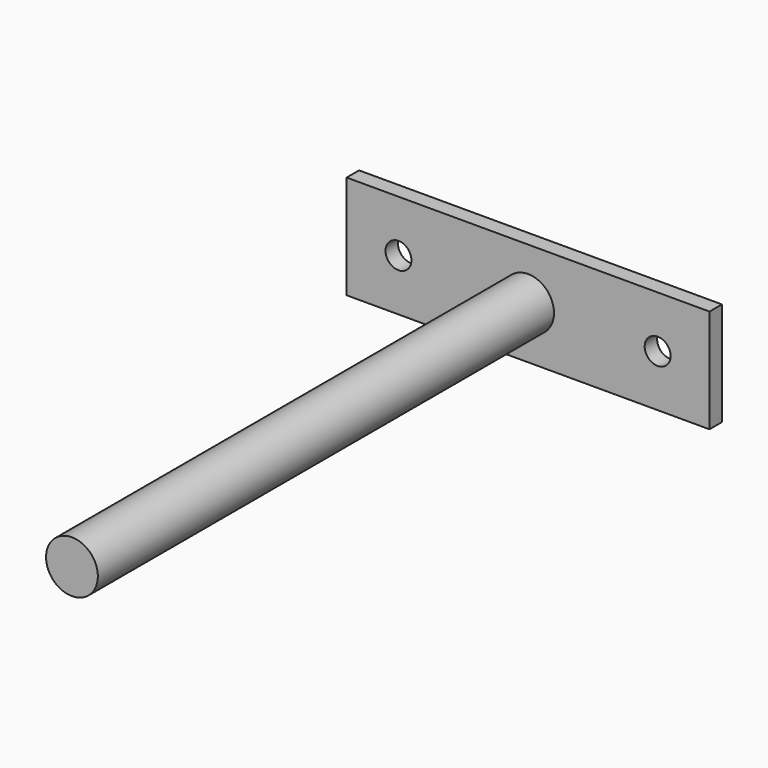
from build123d import *

# Parameters (mm, degrees)
F0_W     = 70
F0_H     = 20
F0_R     = 2.5
F1_DEPTH = 3
F2_R     = 5
F3_DEPTH = 110


with BuildPart() as f1:
    # F0 (on Front) → F1 (new body)
    with BuildSketch(Plane.XZ):
        Rectangle(F0_W, F0_H)
        with Locations((-25, 0)):
            Circle(F0_R, mode=Mode.SUBTRACT)
        with Locations((25, 0)):
            Circle(F0_R, mode=Mode.SUBTRACT)
    extrude(amount=F1_DEPTH)

    # F2 (on face) → F3 (join)
    with BuildSketch(Plane.XZ.offset(3)):
        Circle(F2_R)
    extrude(amount=F3_DEPTH)


solid = f1.part
